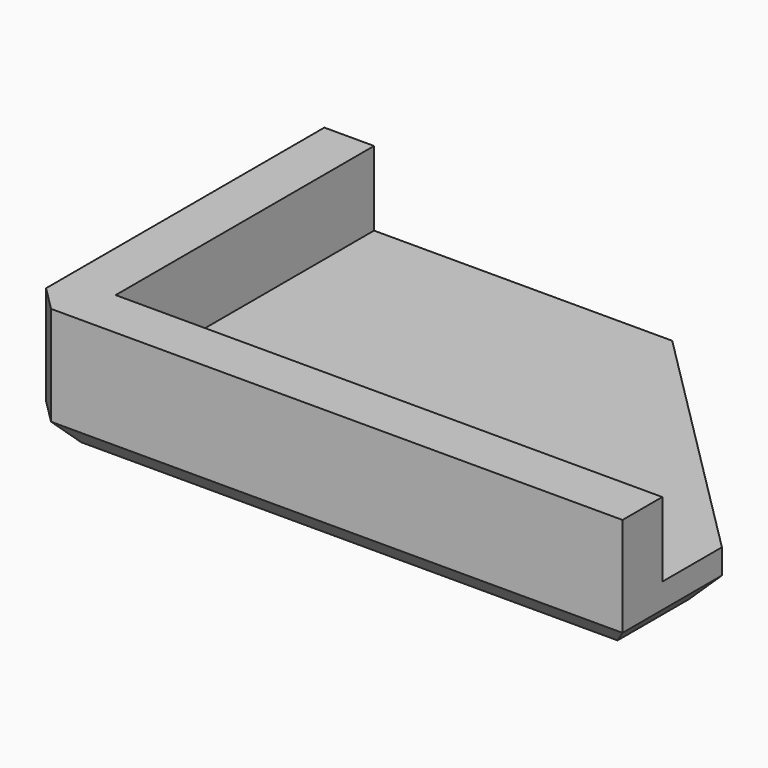
from build123d import *

# Parameters (mm, degrees)
BOX005_W        = 2
BOX005_H        = 15
BOX005_DEPTH    = 5
BOX004_W        = 24
BOX004_H        = 15
BOX004_DEPTH    = 2
CHAMFER002_SIZE = 10
BOX006_W        = 24
BOX006_H        = 2
BOX006_DEPTH    = 5
CHAMFER003_SIZE = 1
CHAMFER004_SIZE = 1


with BuildPart() as cube005:
    # Box005 → Box005 (new body)
    with BuildSketch(Plane.XY):
        with Locations((1, 7.5)):
            Rectangle(BOX005_W, BOX005_H)
    extrude(amount=BOX005_DEPTH)


with BuildPart() as chamfer002:
    # Box004 → Box004 (new body)
    with BuildSketch(Plane.XY):
        with Locations((12, 7.5)):
            Rectangle(BOX004_W, BOX004_H)
    extrude(amount=BOX004_DEPTH)

    # Chamfer002
    chamfer002_edges = [chamfer002.edges().sort_by_distance(p)[0] for p in [
        (24, 15, 1),
    ]]
    chamfer(chamfer002_edges, length=CHAMFER002_SIZE)


with BuildPart() as chamfer004:
    # Box006 → Box006 (new body)
    with BuildSketch(Plane.XY):
        with Locations((12, 1)):
            Rectangle(BOX006_W, BOX006_H)
    extrude(amount=BOX006_DEPTH)

    # Fusion001002002003: union Cube005, Chamfer002
    add(cube005.part)
    add(chamfer002.part)

    # Chamfer003
    chamfer003_edges = [chamfer004.edges().sort_by_distance(p)[0] for p in [
        (0, 0, 2.5),
    ]]
    chamfer(chamfer003_edges, length=CHAMFER003_SIZE)

    # Chamfer004
    chamfer004_edges = [chamfer004.edges().sort_by_distance(p)[0] for p in [
        (0, 8, 0),
        (0.5, 0.5, 0),
        (7, 15, 0),
        (12.5, 0, 0),
        (24, 2.5, 0),
        (19, 10, 0),
    ]]
    chamfer(chamfer004_edges, length=CHAMFER004_SIZE)


solid = chamfer004.part
